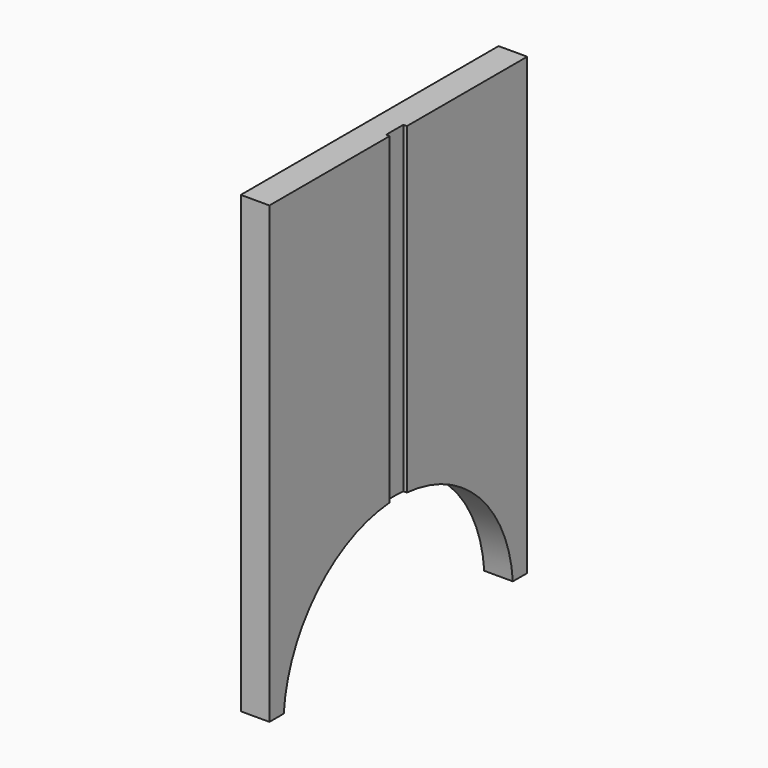
from build123d import *

# Parameters (mm, degrees)
F1_DEPTH = 25.4
F3_DEPTH = 3.175


with BuildPart() as f1:
    # F0 (on Right) → F1 (new body)
    with BuildSketch(Plane.YZ):
        with BuildLine():
            Line((-71.363949, 338.589144), (-357.113949, 338.589144))
            Line((-357.113949, 338.589144), (-357.113949, -64.635856))
            Line((-357.113949, -64.635856), (-341.238949, -64.635856))
            ThreePointArc((-341.238949, -64.635856), (-214.238949, 52.839144), (-87.238949, -64.635856))
            Line((-87.238949, -64.635856), (-71.363949, -64.635856))
            Line((-71.363949, -64.635856), (-71.363949, 338.589144))
        make_face()
    extrude(amount=F1_DEPTH)

    # F2 (on face) → F3 (cut)
    with BuildSketch(Plane.YZ.offset(25.4)):
        with BuildLine():
            Line((-204.713949, 338.589144), (-214.238949, 338.589144))
            Line((-214.238949, 338.589144), (-223.763949, 338.589144))
            Line((-223.763949, 338.589144), (-223.763949, 52.48254))
            ThreePointArc((-223.763949, 52.48254), (-214.238949, 52.839144), (-204.713949, 52.48254))
            Line((-204.713949, 52.48254), (-204.713949, 338.589144))
        make_face()
        with BuildLine():
            ThreePointArc((-204.713949, 52.48254), (-214.238949, 52.839144), (-223.763949, 52.48254))
            Line((-223.763949, 52.48254), (-223.763949, 26.907945))
            Line((-223.763949, 26.907945), (-204.713949, 26.907945))
            Line((-204.713949, 26.907945), (-204.713949, 52.48254))
        make_face()
    extrude(amount=-F3_DEPTH, mode=Mode.SUBTRACT)


solid = f1.part
